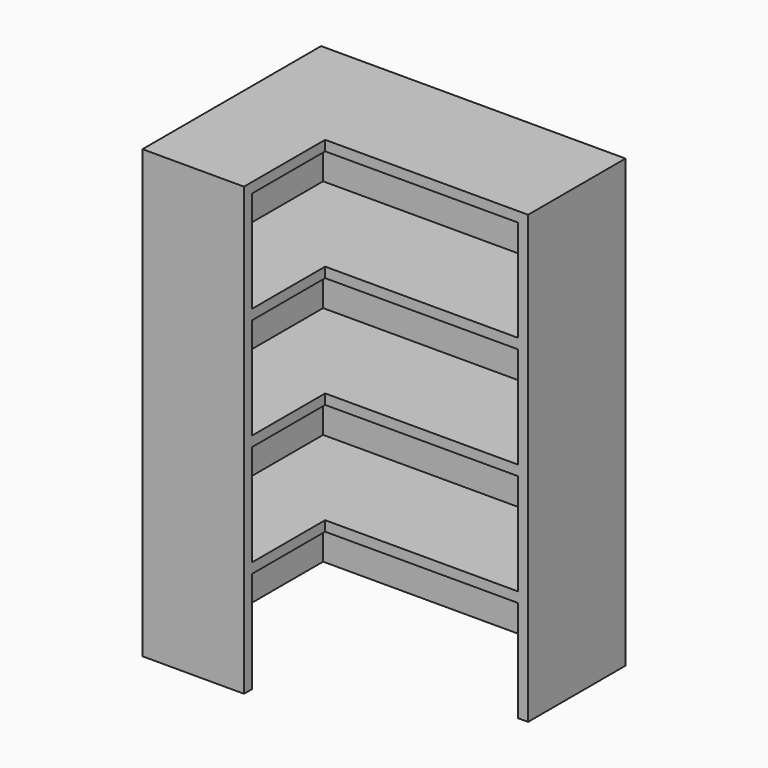
from build123d import *

# Parameters (mm, degrees)
BOX3522_W        = 1400
BOX3522_H        = 1000
BOX3522_DEPTH    = 500
ARRAY279_Z_COUNT = 4
ARRAY279_Z_PITCH = 550
BOX3520_W        = 500
BOX3520_H        = 500
BOX3520_DEPTH    = 2200
BOX3521_W        = 1500
BOX3521_H        = 600
BOX3521_DEPTH    = 2200


with BuildPart() as array279:
    # Box3522 → Box3522 (new body)
    with BuildSketch(Plane(origin=(7150, -2050, 0), x_dir=(1, 0, 0), z_dir=(0, 0, 1))):
        with Locations((700, 500)):
            Rectangle(BOX3522_W, BOX3522_H)
    extrude(amount=BOX3522_DEPTH)

    # Array279 Z: Array279 ×4


with BuildPart() as array279_1:
    add(array279.part)
    with Locations(*[(0, 0, i * ARRAY279_Z_PITCH) for i in range(1, ARRAY279_Z_COUNT)]):
        add(array279.part)


with BuildPart() as box3520:
    # Box3520 → Box3520 (new body)
    with BuildSketch(Plane(origin=(7100, -2100, 0), x_dir=(1, 0, 0), z_dir=(0, 0, 1))):
        with Locations((250, 250)):
            Rectangle(BOX3520_W, BOX3520_H)
    extrude(amount=BOX3520_DEPTH)


with BuildPart() as cut001:
    # Box3521 → Box3521 (new body)
    with BuildSketch(Plane(origin=(7100, -1600, 0), x_dir=(1, 0, 0), z_dir=(0, 0, 1))):
        with Locations((750, 300)):
            Rectangle(BOX3521_W, BOX3521_H)
    extrude(amount=BOX3521_DEPTH)

    # Fusion014: union Box3520
    add(box3520.part)

    # Cut001: cut Array279
    add(array279_1.part, mode=Mode.SUBTRACT)


solid = cut001.part
